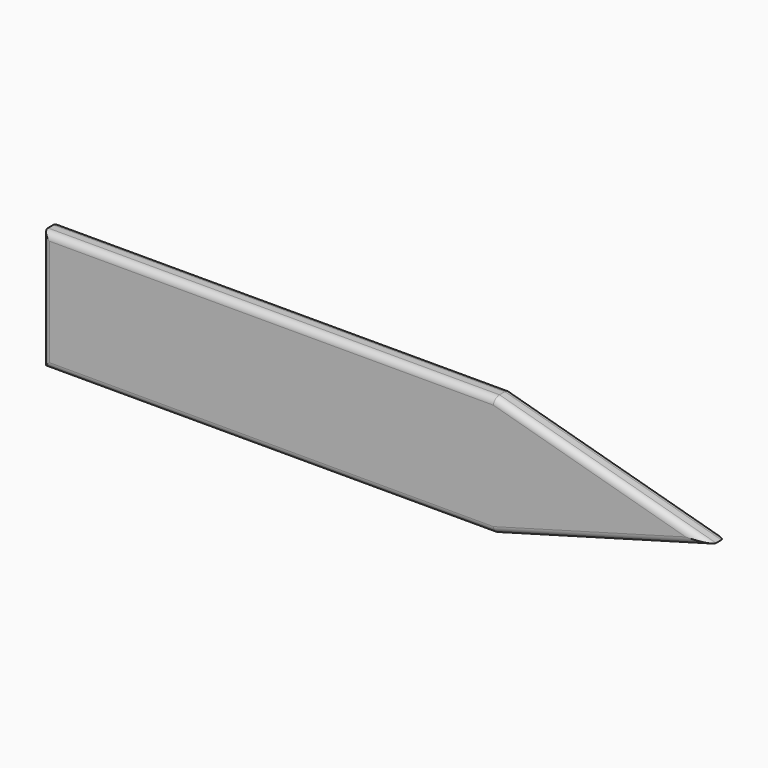
from build123d import *

# Parameters (mm, degrees)
F1_DEPTH = 3
F2_R     = 1


with BuildPart() as f1:
    # F0 (on Front) → F1 (new body)
    with BuildSketch(Plane.XZ):
        Polygon((-24.384952, 0), (-12.426005, 0), (75.615048, 0), (43.213989, 9), (-24.384952, 9), align=None)
        Polygon((75.615048, 0), (-12.426005, 0), (-24.384952, 0), (-24.384952, -9), (43.213989, -9), align=None)
    extrude(amount=F1_DEPTH)

    # F2
    f2_edges = [f1.edges().sort_by_distance(p)[0] for p in [
        (59.414519, -3, 4.5),
        (9.414519, -3, 9),
        (-24.384952, -3, 0),
        (9.414519, -3, -9),
        (59.414519, -3, -4.5),
        (59.414519, 0, 4.5),
        (9.414519, 0, 9),
        (-24.384952, 0, 0),
        (9.414519, 0, -9),
        (59.414519, 0, -4.5),
    ]]
    fillet(f2_edges, radius=F2_R)


solid = f1.part
